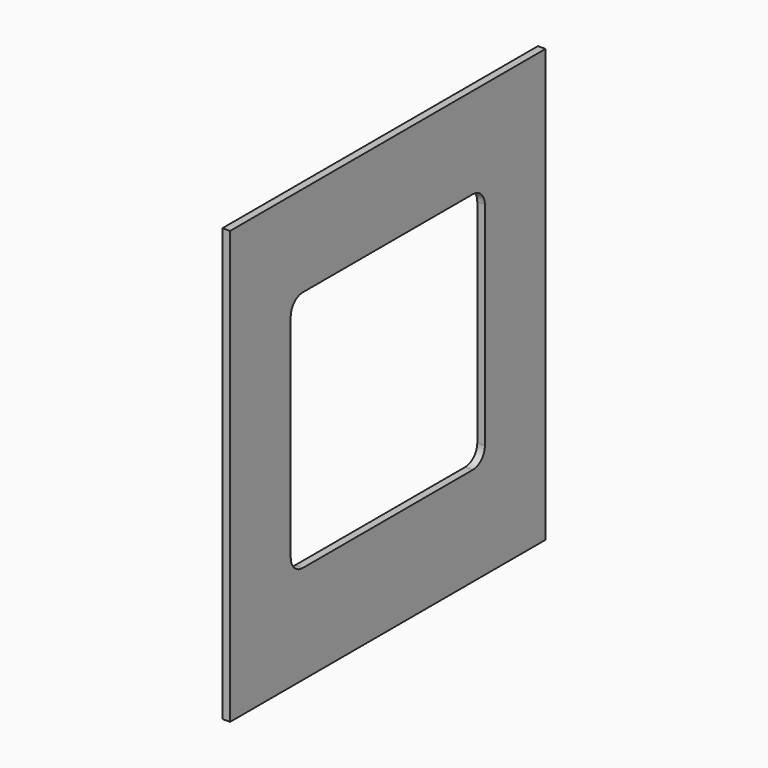
from build123d import *

# Parameters (mm, degrees)
F0_W     = 660.4
F0_H     = 723.9
F1_DEPTH = 12.7
F3_DEPTH = 12.701


with BuildPart() as f1:
    # F0 (on Right) → F1 (new body)
    with BuildSketch(Plane.YZ):
        with Locations((330.2, 361.95)):
            Rectangle(F0_W, F0_H)
    extrude(amount=F1_DEPTH)

    # F2 (on face) → F3 (cut, through all)
    with BuildSketch(Plane.YZ.offset(12.7)):
        with BuildLine():
            Line((508, 571.5), (152.4, 571.5))
            ThreePointArc((152.4, 571.5), (134.439488, 564.060512), (127, 546.1))
            Line((127, 546.1), (127, 190.5))
            ThreePointArc((127, 190.5), (134.439488, 172.539488), (152.4, 165.1))
            Line((152.4, 165.1), (508, 165.1))
            ThreePointArc((508, 165.1), (525.960512, 172.539488), (533.4, 190.5))
            Line((533.4, 190.5), (533.4, 546.1))
            ThreePointArc((533.4, 546.1), (525.960512, 564.060512), (508, 571.5))
        make_face()
    extrude(amount=-F3_DEPTH, mode=Mode.SUBTRACT)


solid = f1.part
